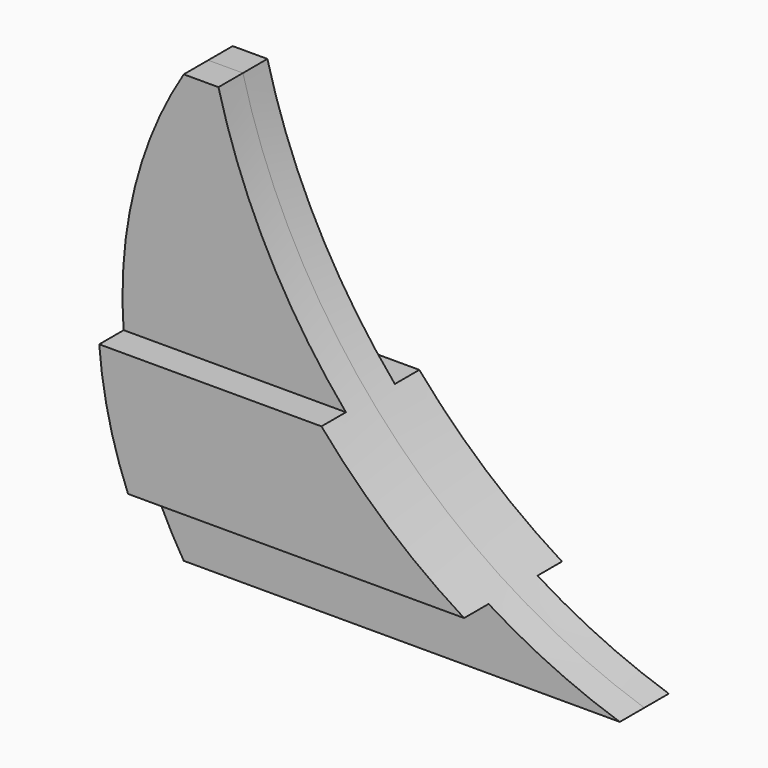
from build123d import *

# Parameters (mm, degrees)
F0_W     = 104.775
F0_H     = 88.9
F1_DEPTH = 6.35
F2_W     = 104.775
F2_H     = 25.4
F3_DEPTH = 6.35
F5_DEPTH = 254
F7_DEPTH = 25.4


with BuildPart() as f1:
    # F0 (on Front) → F1 (new body)
    with BuildSketch(Plane.XZ):
        with Locations((-52.3875, 44.45)):
            Rectangle(F0_W, F0_H)
    extrude(amount=F1_DEPTH)

    # F2 (on face) → F3 (join)
    with BuildSketch(Plane(origin=(0, 0, 0), x_dir=(-1, 0, 0), z_dir=(0, 1, 0))):
        with Locations((52.3875, 25.4)):
            Rectangle(F2_W, F2_H)
    extrude(amount=F3_DEPTH)

    # F4 (on face) → F5 (cut)
    with BuildSketch(Plane.XZ.offset(6.35)):
        with BuildLine():
            ThreePointArc((-104.775, 44.45), (-101.537721, 67.564349), (-92.075, 88.9))
            Line((-92.075, 88.9), (-104.775, 88.9))
            Line((-104.775, 88.9), (-104.775, 44.45))
        make_face()
        with BuildLine():
            ThreePointArc((-92.075, 0), (-101.537721, 21.335651), (-104.775, 44.45))
            Line((-104.775, 44.45), (-104.775, 0))
            Line((-104.775, 0), (-92.075, 0))
        make_face()
    extrude(amount=-F5_DEPTH, mode=Mode.SUBTRACT)

    # F6 (on face) → F7 (cut)
    with BuildSketch(Plane.XZ.offset(6.35)):
        with BuildLine():
            ThreePointArc((-84.867221, 88.9), (-54.568005, 33.807379), (-1.555737, 0))
            Line((-1.555737, 0), (0, 0))
            Line((0, 0), (0, 88.9))
            Line((0, 88.9), (-84.867221, 88.9))
        make_face()
    extrude(amount=-F7_DEPTH, mode=Mode.SUBTRACT)


with BuildPart() as f8_1:
    # F8: instance of F1
    add(f1.part.mirror(Plane(origin=(-73.474778, -6.35, 31.549157), x_dir=(1, 0, 0), z_dir=(0, -1, 0))))


solid = Compound([f1.part, f8_1.part])
